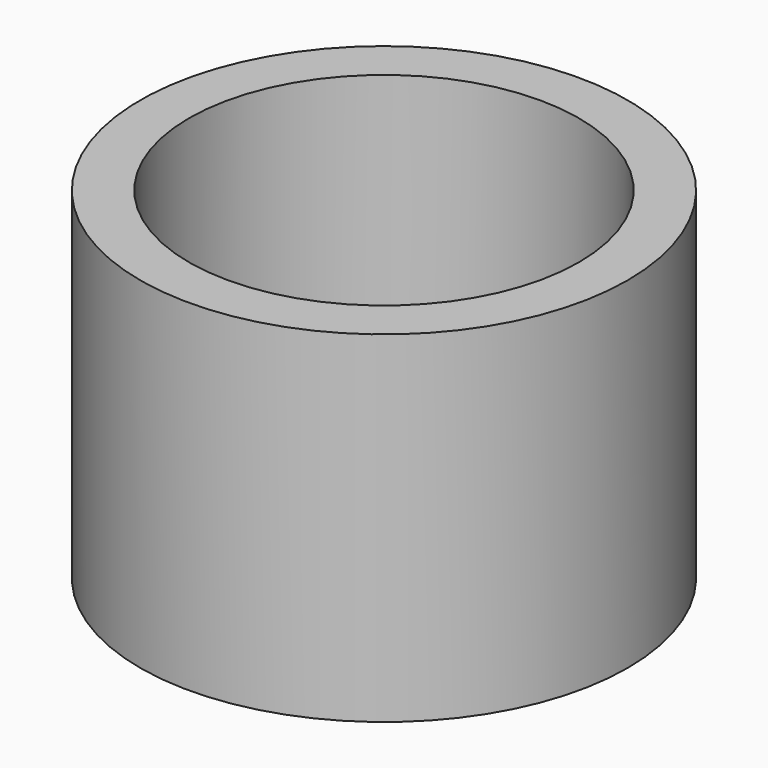
from build123d import *

# Parameters (mm, degrees)
SKETCH_R   = 5
SKETCH_R_2 = 4
PAD_DEPTH  = 7


with BuildPart() as part:
    # Sketch → Pad (new body)
    with BuildSketch(Plane.XY):
        Circle(SKETCH_R)
        Circle(SKETCH_R_2, mode=Mode.SUBTRACT)
    extrude(amount=PAD_DEPTH)


solid = part.part
